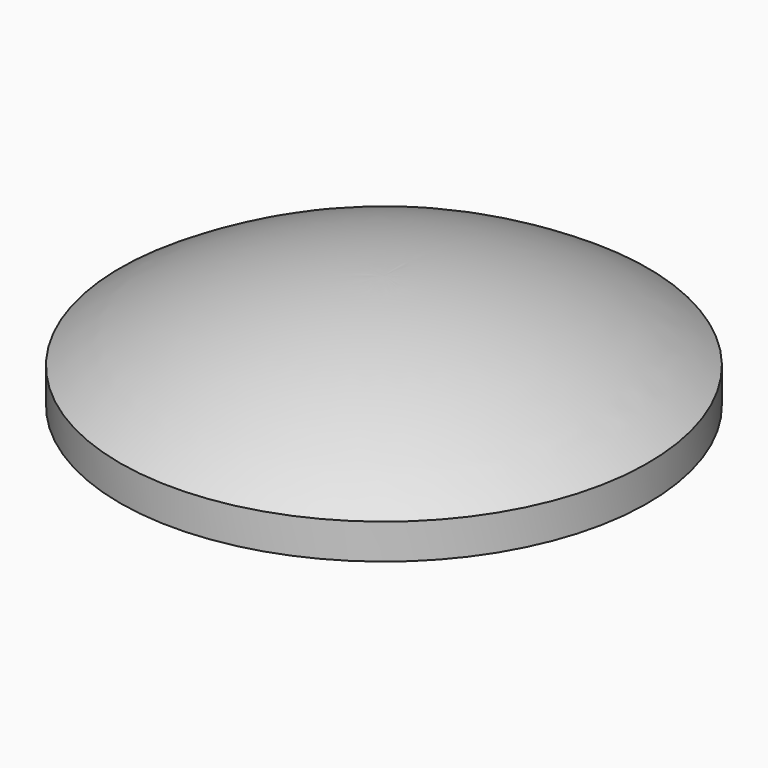
from build123d import *

# Parameters (mm, degrees)
CYLINDER_R     = 13
CYLINDER_DEPTH = 15


with BuildPart() as thin:
    # Cylinder → Cylinder (new body)
    with BuildSketch(Plane(origin=(-45, -15, -3), x_dir=(1, 0, 0), z_dir=(0, 0, 1))):
        Circle(CYLINDER_R)
    extrude(amount=CYLINDER_DEPTH)


with BuildPart() as mushroom:
    # Sketch001 → Revolve (revolve)
    with BuildSketch(Plane.YZ):
        with BuildLine():
            Line((30, -4), (30, 0))
            ThreePointArc((30, 0), (15.66046, 6.701533), (0, 9))
            Line((0, -4), (0, 9))
            Line((30, -4), (0, -4))
        make_face()
    revolve(axis=Axis((0, 0, 0), (0, 0, 1)))


with BuildPart() as mushroom_1:
    # Revolve placement: moved
    add(mushroom.part.moved(Location((-45, -15, 7))))

    # Cut: cut Thin
    add(thin.part, mode=Mode.SUBTRACT)


with BuildPart() as part_mirroring001:
    # Part__Mirroring001: instance of Mushroom
    add(mushroom_1.part.mirror(Plane(origin=(1e-06, -15, 8.5), x_dir=(0, -1, 0), z_dir=(1, 0, 0))))


solid = part_mirroring001.part
